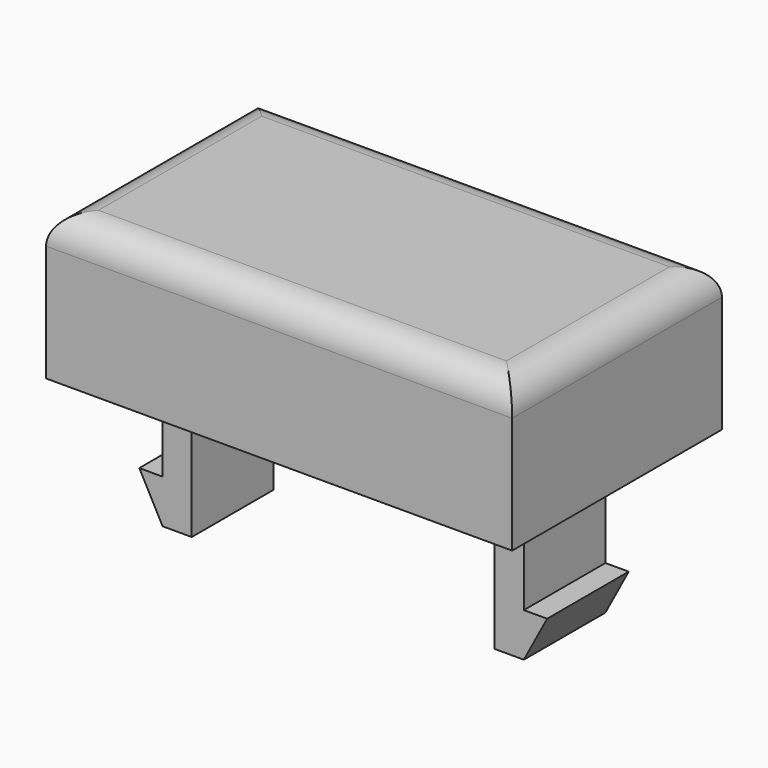
from build123d import *

# Parameters (mm, degrees)
SKETCH036_W     = 16
SKETCH036_H     = 9
PAD021_DEPTH    = 5
SKETCH037_W     = 14.4
SKETCH037_H     = 7.4
POCKET013_DEPTH = 4
SKETCH038_W     = 1
SKETCH038_H     = 3.5
PAD022_DEPTH    = 9
PAD023_DEPTH    = 3.5
SKETCH041_R     = 1
PAD025_DEPTH    = 3.4
FILLET002_R     = 1
FILLET007_R     = 0.7
FILLET011_R     = 0.8


with BuildPart() as part:
    # Sketch036 → Pad021 (new body)
    with BuildSketch(Plane.XY):
        Rectangle(SKETCH036_W, SKETCH036_H)
    extrude(amount=PAD021_DEPTH)

    # Sketch037 (on Face5 of Pad021) → Pocket013 (cut)
    with BuildSketch(Plane(origin=(0, 0, 0), x_dir=(1, 0, 0), z_dir=(0, 0, -1))):
        Rectangle(SKETCH037_W, SKETCH037_H)
    extrude(amount=-POCKET013_DEPTH, mode=Mode.SUBTRACT)

    # Sketch038 (on Face11 of Pocket013) → Pad022 (join)
    with BuildSketch(Plane(origin=(0, 0, 4), x_dir=(1, 0, 0), z_dir=(0, 0, -1))):
        with Locations((-5.7, 0)):
            Rectangle(SKETCH038_W, SKETCH038_H)
        with Locations((5.7, 0)):
            Rectangle(SKETCH038_W, SKETCH038_H)
    extrude(amount=PAD022_DEPTH)

    # Sketch039 (on Face17 of Pad022) → Pad023 (join)
    with BuildSketch(Plane(origin=(0, 1.75, 0), x_dir=(-1, 0, 0), z_dir=(0, 1, 0))):
        Polygon((-6.2, -3.5), (-7, -3.5), (-6.2, -5), align=None)
        Polygon((6.2, -3.5), (7, -3.5), (6.2, -5), align=None)
    extrude(amount=-PAD023_DEPTH)

    # Sketch041 (on Face11 of Pad023) → Pad025 (join)
    with BuildSketch(Plane(origin=(0, 0, 4), x_dir=(1, 0, 0), z_dir=(0, 0, -1))):
        Circle(SKETCH041_R)
    extrude(amount=PAD025_DEPTH)

    # Fillet002
    fillet002_edges = [part.edges().sort_by_distance(p)[0] for p in [
        (0, 4.5, 5),
        (-8, 0, 5),
        (0, -4.5, 5),
        (8, 0, 5),
    ]]
    fillet(fillet002_edges, radius=FILLET002_R)

    # Fillet007
    fillet007_edges = [part.edges().sort_by_distance(p)[0] for p in [
        (-1, 0, 4),
    ]]
    fillet(fillet007_edges, radius=FILLET007_R)

    # Fillet011
    fillet011_edges = [part.edges().sort_by_distance(p)[0] for p in [
        (5.2, 0, 4),
        (5.7, 1.75, 4),
        (6.2, 0, 4),
        (5.7, -1.75, 4),
        (-5.7, -1.75, 4),
        (-6.2, 0, 4),
        (-5.2, 0, 4),
        (-5.7, 1.75, 4),
    ]]
    fillet(fillet011_edges, radius=FILLET011_R)


with BuildPart() as part_1:
    # Body008 placement: moved
    add(part.part.moved(Location((-33, -44, 15))))


with BuildPart() as part_2:
    # Clone001 placement: moved
    add(part_1.part.moved(Location((0, 0, 4))))


with BuildPart() as part_3:
    # Body010 placement: moved
    add(part_2.part.moved(Location((34, 0, -4))))


solid = part_3.part
